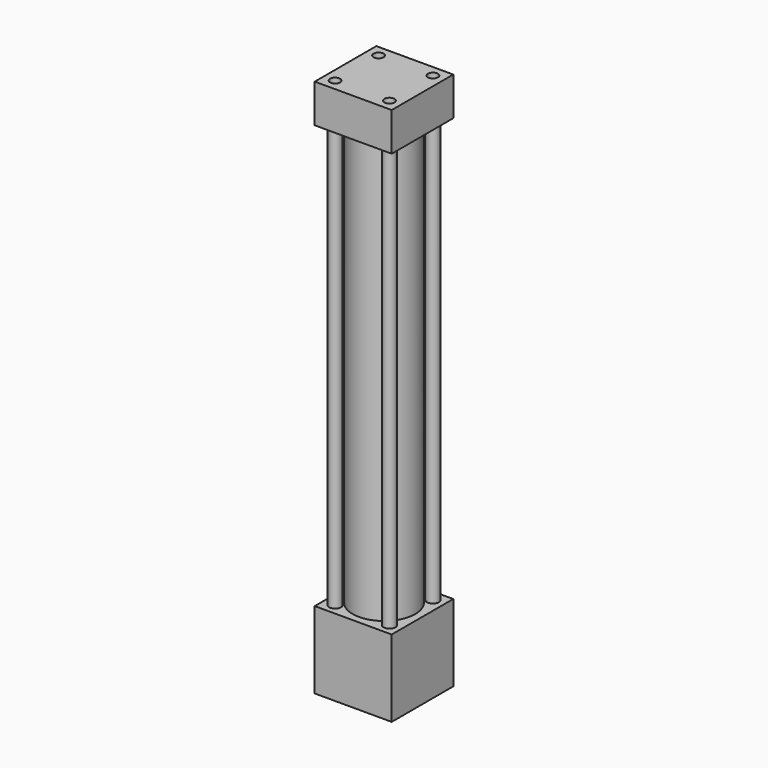
from build123d import *

# Parameters (mm, degrees)
F0_R      = 20.6375
F0_R_2    = 3.9624
F1_DEPTH  = 279.4
F2_W      = 50.8
F2_H      = 50.8
F3_DEPTH  = 25.4
F4_W      = 50.8
F4_H      = 50.8
F5_DEPTH  = 50.8
F6_R      = 3.302
F7_DEPTH  = 17.78
F8_R      = 3.302
F9_DEPTH  = 17.78
F10_R     = 15.875
F11_DEPTH = 3.175
F12_R     = 5.715
F13_DEPTH = 12.7


with BuildPart() as f1:
    # F0 (on Top) → F1 (new body)
    with BuildSketch(Plane.XY):
        Circle(F0_R)
        with Locations((-17.9451, 17.9451)):
            Circle(F0_R_2)
        with Locations((17.9451, 17.9451)):
            Circle(F0_R_2)
        with Locations((17.9451, -17.9451)):
            Circle(F0_R_2)
        with Locations((-17.9451, -17.9451)):
            Circle(F0_R_2)
    extrude(amount=F1_DEPTH)

    # F2 (on face) → F3 (join)
    with BuildSketch(Plane.XY.offset(279.4)):
        Rectangle(F2_W, F2_H)
    extrude(amount=F3_DEPTH)

    # F4 (on face) → F5 (join)
    with BuildSketch(Plane(origin=(0, 0, 0), x_dir=(1, 0, 0), z_dir=(0, 0, -1))):
        Rectangle(F4_W, F4_H)
    extrude(amount=F5_DEPTH)

    # F6 (on face) → F7 (cut)
    with BuildSketch(Plane(origin=(0, 0, -50.8), x_dir=(1, 0, 0), z_dir=(0, 0, -1))):
        with Locations((-17.9451, 17.9451)):
            Circle(F6_R)
        with Locations((17.9451, 17.9451)):
            Circle(F6_R)
        with Locations((17.9451, -17.9451)):
            Circle(F6_R)
        with Locations((-17.9451, -17.9451)):
            Circle(F6_R)
    extrude(amount=-F7_DEPTH, mode=Mode.SUBTRACT)

    # F8 (on face) → F9 (cut)
    with BuildSketch(Plane.XY.offset(304.8)):
        with Locations((17.9451, -17.9451)):
            Circle(F8_R)
        with Locations((-17.9451, -17.9451)):
            Circle(F8_R)
        with Locations((17.9451, 17.9451)):
            Circle(F8_R)
        with Locations((-17.9451, 17.9451)):
            Circle(F8_R)
    extrude(amount=-F9_DEPTH, mode=Mode.SUBTRACT)

    # F10 (on face) → F11 (cut)
    with BuildSketch(Plane(origin=(0, 0, -50.8), x_dir=(1, 0, 0), z_dir=(0, 0, -1))):
        Circle(F10_R)
    extrude(amount=-F11_DEPTH, mode=Mode.SUBTRACT)

    # F12 (on face) → F13 (cut)
    with BuildSketch(Plane(origin=(0, 25.4, 0), x_dir=(-1, 0, 0), z_dir=(0, 1, 0))):
        with Locations((0, -16.51)):
            Circle(F12_R)
        with Locations((0, 295.148)):
            Circle(F12_R)
    extrude(amount=-F13_DEPTH, mode=Mode.SUBTRACT)


solid = f1.part
